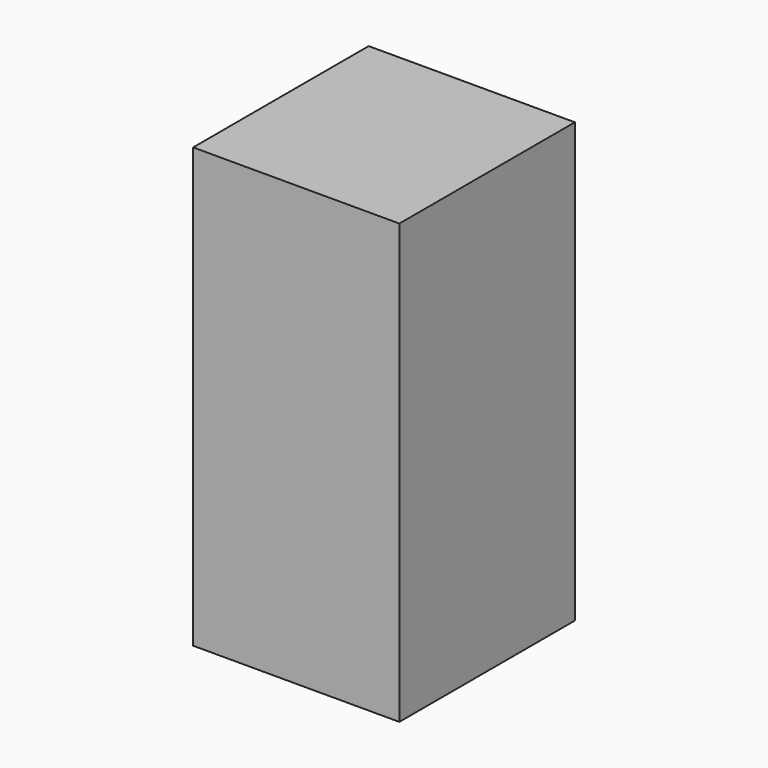
from build123d import *

# Parameters (mm, degrees)
F0_W     = 42.7973791957
F0_H     = 46.9045490026
F1_DEPTH = 800
F2_DEPTH = 400
F3_DEPTH = 100
F4_DEPTH = 42.8
F5_DEPTH = 370
F6_T     = -18
F7_DEPTH = 6


with BuildPart() as f1:
    # F0 (on Top) → F1 (new body)
    with BuildSketch(Plane.XY):
        with Locations((21.3986895978, -23.4522745013)):
            Rectangle(F0_W, F0_H)
    extrude(amount=F1_DEPTH)

    # F2 (add): a face of the model
    f2_faces = [f1.faces().sort_by_distance(p)[0] for p in [
        (21.3986895978, 0, 400),
    ]]
    extrude(f2_faces, amount=-F2_DEPTH)

    # F3 (add): a face of the model
    f3_faces = [f1.faces().sort_by_distance(p)[0] for p in [
        (0, -200, 400),
    ]]
    extrude(f3_faces, amount=F3_DEPTH)

    # F4 (cut): a face of the model
    f4_faces = [f1.faces().sort_by_distance(p)[0] for p in [
        (42.7973791957, -200, 400),
    ]]
    extrude(f4_faces, amount=-F4_DEPTH, mode=Mode.SUBTRACT)

    # F5 (add): a face of the model
    f5_faces = [f1.faces().sort_by_distance(p)[0] for p in [
        (-0.0026208043, -200, 400),
    ]]
    extrude(f5_faces, amount=-F5_DEPTH)

    # F6
    f6_openings = [f1.faces().sort_by_distance(p)[0] for p in [
        (-370.002621, -200, 400),
    ]]
    offset(amount=F6_T, openings=f6_openings)

    # F7 (add): a face of the model
    f7_faces = [f1.faces().sort_by_distance(p)[0] for p in [
        (-0.0026208043, -200, 400),
    ]]
    extrude(f7_faces, amount=F7_DEPTH)


solid = f1.part
